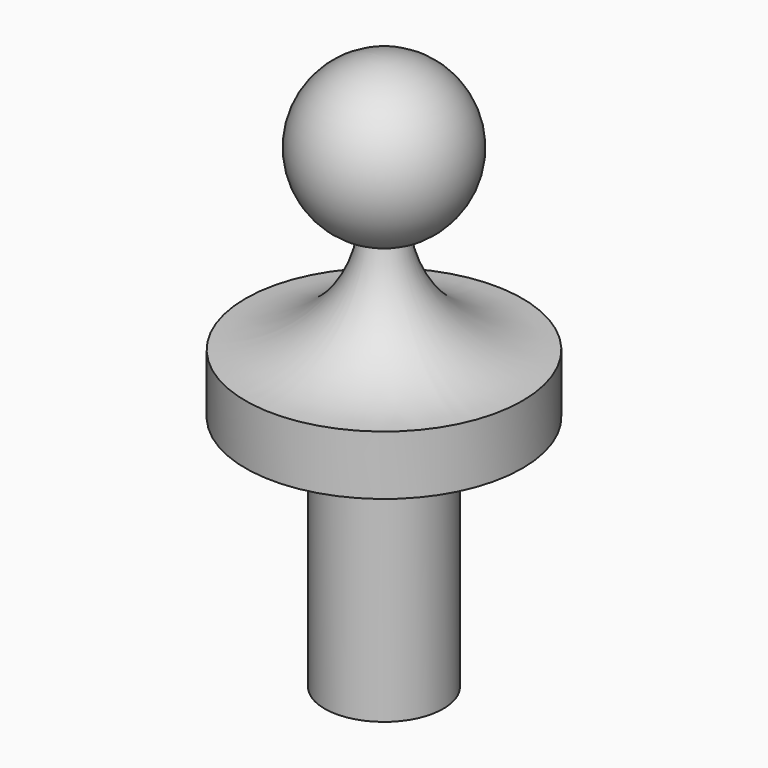
from build123d import *


with BuildPart() as f1:
    # F0 (on Front) → F1 (revolve)
    with BuildSketch(Plane.XZ):
        with BuildLine():
            Line((-7, 3), (-7, 0))
            Line((-7, 0), (-3, 0))
            Line((-3, 0), (-3, -12))
            Line((-3, -12), (0, -12))
            Line((0, -12), (0, 16))
            ThreePointArc((0, 16), (-3.963986, 12.535552), (-1.061461, 8.143408))
            ThreePointArc((-1.061461, 8.143408), (-3.071868, 4.464609), (-7, 3))
        make_face()
    revolve(axis=Axis((0, 0, -0.169224), (0, 0, 1)))


solid = f1.part
